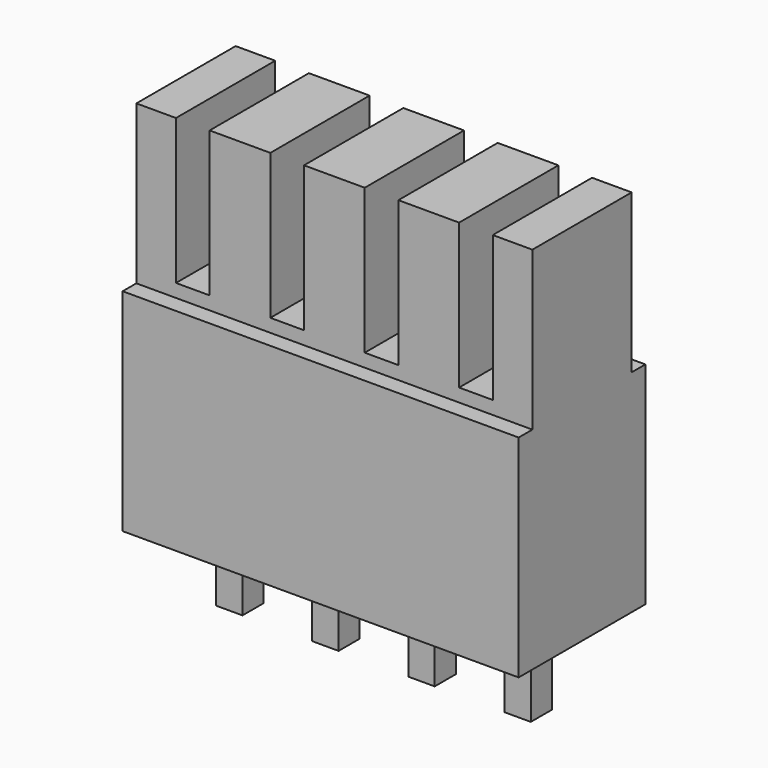
from build123d import *

# Parameters (mm, degrees)
SKETCH_W     = 15
SKETCH_H     = 6
PAD_DEPTH    = 8
SKETCH001_W  = 15
SKETCH001_H  = 4.7
PAD001_DEPTH = 6
SKETCH003_W  = 1.275
SKETCH003_H  = 4.7
POCKET_DEPTH = 5.5
SKETCH004_W  = 1
SKETCH004_H  = 1
PAD002_DEPTH = 3


with BuildPart() as part:
    # Sketch → Pad (new body)
    with BuildSketch(Plane.XY):
        Rectangle(SKETCH_W, SKETCH_H)
    extrude(amount=PAD_DEPTH)

    # Sketch001 (on Face6 of Pad) → Pad001 (join)
    with BuildSketch(Plane.XY.offset(8)):
        Rectangle(SKETCH001_W, SKETCH001_H)
    extrude(amount=PAD001_DEPTH)

    # Sketch003 (on Face12 of Pad001) → Pocket (cut)
    with BuildSketch(Plane.XY.offset(14)):
        with Locations((1.7875, 0)):
            Rectangle(SKETCH003_W, SKETCH003_H)
        with Locations((5.3625, 0)):
            Rectangle(SKETCH003_W, SKETCH003_H)
        with Locations((-1.7875, 0)):
            Rectangle(SKETCH003_W, SKETCH003_H)
        with Locations((-5.3625, 0)):
            Rectangle(SKETCH003_W, SKETCH003_H)
    extrude(amount=-POCKET_DEPTH, mode=Mode.SUBTRACT)

    # Sketch004 (on Face4 of Pocket) → Pad002 (join)
    with BuildSketch(Plane(origin=(0, 0, 0), x_dir=(1, 0, 0), z_dir=(0, 0, -1))):
        with Locations((-1.82, 0)):
            Rectangle(SKETCH004_W, SKETCH004_H)
        with Locations((-5.46, 0)):
            Rectangle(SKETCH004_W, SKETCH004_H)
        with Locations((1.82, 0)):
            Rectangle(SKETCH004_W, SKETCH004_H)
        with Locations((5.46, 0)):
            Rectangle(SKETCH004_W, SKETCH004_H)
    extrude(amount=PAD002_DEPTH)


solid = part.part
